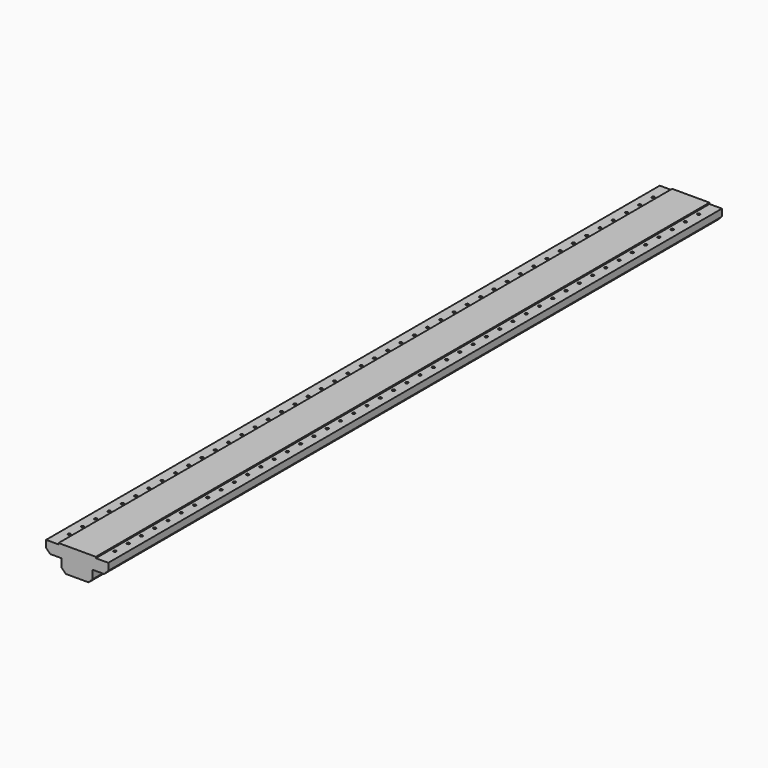
from build123d import *

# Parameters (mm, degrees)
F1_DEPTH  = 1850
F2_SIZE   = 10
F4_D      = 6.6
F4_DEPTH  = 17.25
F4_TIP    = 1.9828400428
F5_D      = 2.4
F7_D      = 5.5
F7_DEPTH  = 17.25
F7_TIP    = 1.6523667023
F8_D      = 2.4
F9_W      = 30
F9_H      = 3
F10_DEPTH = 1850.001
F12_D     = 6.6
F14_D     = 6.6


with BuildPart() as f1:
    # F0 (on Front) → F1 (new body)
    with BuildSketch(Plane.XZ):
        Polygon((75, 0), (0, 0), (-75, 0), (-75, -30), (-37.5, -30), (-37.5, -60), (0, -60), (37.5, -60), (37.5, -30), (75, -30), align=None)
    extrude(amount=F1_DEPTH)

    # F2
    f2_edges = [f1.edges().sort_by_distance(p)[0] for p in [
        (75, -925, -30),
        (-75, -925, -30),
        (-37.5, -925, -60),
        (37.5, -925, -60),
    ]]
    chamfer(f2_edges, length=F2_SIZE)

    # F4
    with Locations(Plane(origin=(-37.5, 0, 0), x_dir=(0, -1, 0), z_dir=(-1, 0, 0))):
        with Locations((227.5, -40)):
            Hole(F4_D / 2, depth=F4_DEPTH)
            with Locations((0, 0, -(F4_DEPTH + F4_TIP / 2))):  # 118° drill point
                Cone(0, F4_D / 2, F4_TIP, mode=Mode.SUBTRACT)

    # F5 (through all)
    with Locations(Plane(origin=(-37.5, 0, 0), x_dir=(0, -1, 0), z_dir=(-1, 0, 0))):
        with Locations((227.5, -40)):
            Hole(F5_D / 2)

    # F7
    with Locations(Plane.YZ.offset(37.5)):
        with Locations((-1622.5, -40)):
            Hole(F7_D / 2, depth=F7_DEPTH)
            with Locations((0, 0, -(F7_DEPTH + F7_TIP / 2))):  # 118° drill point
                Cone(0, F7_D / 2, F7_TIP, mode=Mode.SUBTRACT)

    # F8 (through all)
    with Locations(Plane.YZ.offset(37.5)):
        with Locations((-1622.5, -40)):
            Hole(F8_D / 2)

    # F9 (on face) → F10 (cut, through all)
    with BuildSketch(Plane.XZ.offset(1850)):
        with Locations((-60, -1.5)):
            Rectangle(F9_W, F9_H)
        with Locations((60, -1.5)):
            Rectangle(F9_W, F9_H)
    extrude(amount=-F10_DEPTH, mode=Mode.SUBTRACT)

    # F12 (through all)
    with Locations(Plane.XY.offset(-3)):
        with Locations((-55, -45), (-55, -85), (-55, -125), (-55, -165), (-55, -205), (-55, -245), (-55, -285), (-55, -325), (-55, -365), (-55, -405), (-55, -445), (-55, -485), (-55, -525), (-55, -565), (-55, -605), (-55, -645), (-55, -685), (-55, -725), (-55, -765), (-55, -805), (-55, -845), (-55, -885), (-55, -925), (-55, -965), (-55, -1005), (-55, -1045), (-55, -1085), (-55, -1125), (-55, -1165), (-55, -1205), (-55, -1245), (-55, -1285), (-55, -1325), (-55, -1365), (-55, -1405), (-55, -1445), (-55, -1485), (-55, -1525), (-55, -1565), (-55, -1605), (-55, -1645), (-55, -1685), (-55, -1725), (-55, -1765), (-55, -1805)):
            Hole(F12_D / 2)

    # F14 (through all)
    with Locations(Plane.XY.offset(-3)):
        with Locations((55, -45), (55, -85), (55, -125), (55, -165), (55, -205), (55, -245), (55, -285), (55, -325), (55, -365), (55, -405), (55, -445), (55, -485), (55, -525), (55, -565), (55, -605), (55, -645), (55, -685), (55, -725), (55, -765), (55, -805), (55, -845), (55, -885), (55, -925), (55, -965), (55, -1005), (55, -1045), (55, -1085), (55, -1125), (55, -1165), (55, -1205), (55, -1245), (55, -1285), (55, -1325), (55, -1365), (55, -1405), (55, -1445), (55, -1485), (55, -1525), (55, -1565), (55, -1605), (55, -1645), (55, -1685), (55, -1725), (55, -1765), (55, -1805)):
            Hole(F14_D / 2)


solid = f1.part
